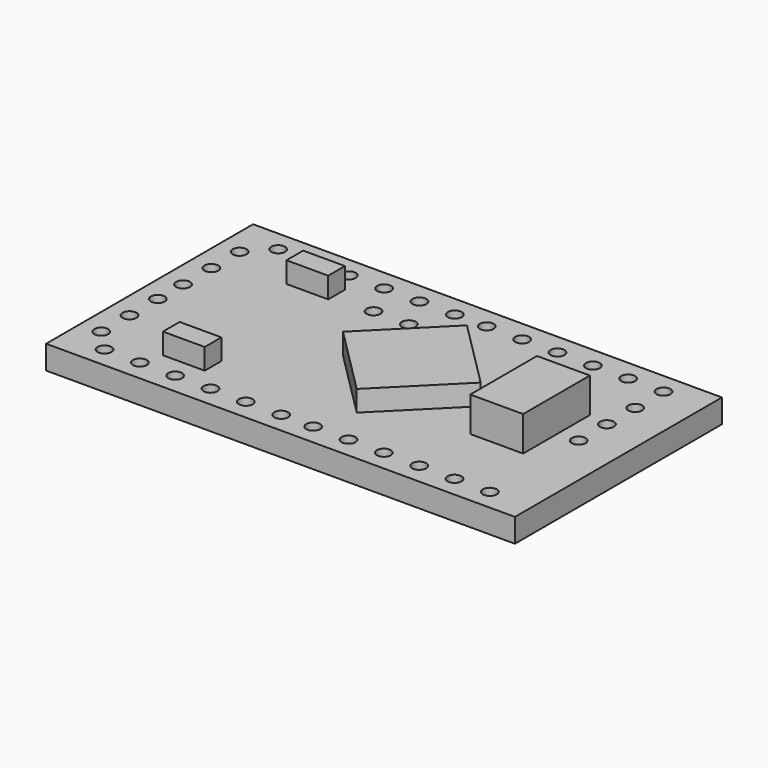
from build123d import *

# Parameters (mm, degrees)
F0_W     = 33.7
F0_H     = 18.6
F1_DEPTH = 1.7
F2_R     = 0.5
F3_DEPTH = 1.701
F5_DEPTH = 1.5
F4_W     = 3.8
F4_H     = 6
F6_DEPTH = 2.5
F4_W_2   = 3
F4_H_2   = 1.5
F7_DEPTH = 1.5


with BuildPart() as f1:
    # F0 (on Top) → F1 (new body)
    with BuildSketch(Plane.XY):
        Rectangle(F0_W, F0_H)
    extrude(amount=F1_DEPTH)

    # F2 (on face) → F3 (cut, through all)
    with BuildSketch(Plane.XY.offset(1.7)):
        with Locations((-13.85, 7.8)):
            Circle(F2_R)
        with Locations((-11.31, 7.8)):
            Circle(F2_R)
        with Locations((-8.77, 7.8)):
            Circle(F2_R)
        with Locations((-6.23, 7.8)):
            Circle(F2_R)
        with Locations((-3.69, 7.8)):
            Circle(F2_R)
        with Locations((-1.15, 7.8)):
            Circle(F2_R)
        with Locations((1.15, 7.8)):
            Circle(F2_R)
        with Locations((3.69, 7.8)):
            Circle(F2_R)
        with Locations((6.23, 7.8)):
            Circle(F2_R)
        with Locations((8.77, 7.8)):
            Circle(F2_R)
        with Locations((11.31, 7.8)):
            Circle(F2_R)
        with Locations((13.85, 7.8)):
            Circle(F2_R)
        with Locations((13.85, -7.8)):
            Circle(F2_R)
        with Locations((11.31, -7.8)):
            Circle(F2_R)
        with Locations((8.77, -7.8)):
            Circle(F2_R)
        with Locations((6.23, -7.8)):
            Circle(F2_R)
        with Locations((3.69, -7.8)):
            Circle(F2_R)
        with Locations((1.15, -7.8)):
            Circle(F2_R)
        with Locations((-1.15, -7.8)):
            Circle(F2_R)
        with Locations((-3.69, -7.8)):
            Circle(F2_R)
        with Locations((-6.23, -7.8)):
            Circle(F2_R)
        with Locations((-8.77, -7.8)):
            Circle(F2_R)
        with Locations((-11.31, -7.8)):
            Circle(F2_R)
        with Locations((-13.85, -7.8)):
            Circle(F2_R)
        with Locations((13.85, 5.26)):
            Circle(F2_R)
        with Locations((13.85, 2.72)):
            Circle(F2_R)
        with Locations((13.85, 0.18)):
            Circle(F2_R)
        with Locations((-15.35, 6.215414)):
            Circle(F2_R)
        with Locations((-15.35, 3.675414)):
            Circle(F2_R)
        with Locations((-15.35, 1.135414)):
            Circle(F2_R)
        with Locations((-15.35, -1.135414)):
            Circle(F2_R)
        with Locations((-15.35, -3.675414)):
            Circle(F2_R)
        with Locations((-15.35, -6.215414)):
            Circle(F2_R)
        with Locations((-4.96, 5.26)):
            Circle(F2_R)
        with Locations((-2.42, 5.26)):
            Circle(F2_R)
    extrude(amount=-F3_DEPTH, mode=Mode.SUBTRACT)

    # F4 (on face) → F5 (join)
    with BuildSketch(Plane.XY.offset(1.7)):
        Polygon((6.949747, 0), (2, 4.949747), (-2.949747, 0), (2, -4.949747), align=None)
    extrude(amount=F5_DEPTH)

    # F4 (on face) → F6 (join)
    with BuildSketch(Plane.XY.offset(1.7)):
        with Locations((10.5, 0)):
            Rectangle(F4_W, F4_H)
    extrude(amount=F6_DEPTH)

    # F4 (on face) → F7 (join)
    with BuildSketch(Plane.XY.offset(1.7)):
        with Locations((-9.35, 5.55)):
            Rectangle(F4_W_2, F4_H_2)
        with Locations((-9.35, -5.55)):
            Rectangle(F4_W_2, F4_H_2)
    extrude(amount=F7_DEPTH)


solid = f1.part
